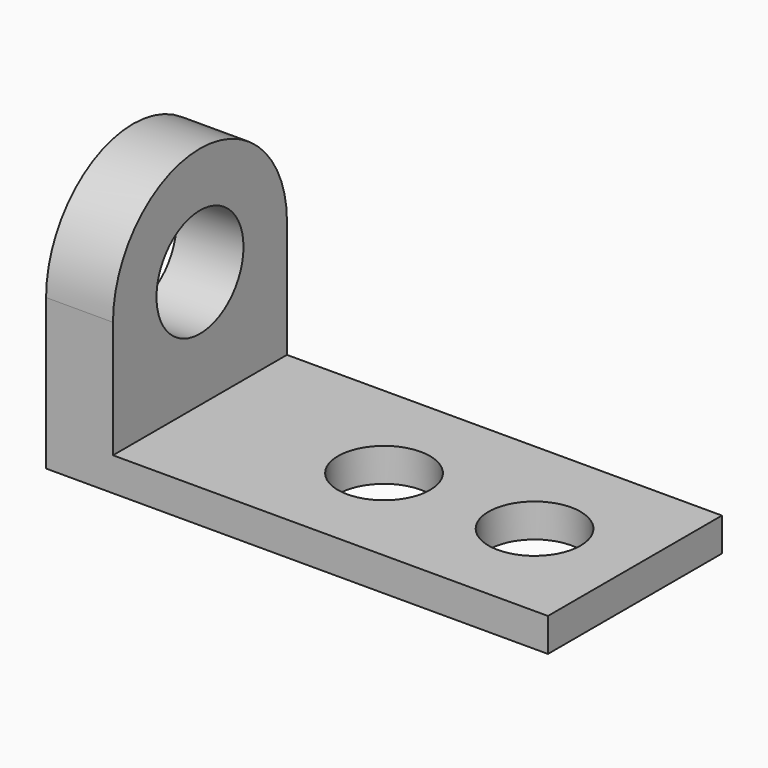
from build123d import *

# Parameters (mm, degrees)
F1_DEPTH = 82.55
F3_DEPTH = 25.4
F4_R     = 20.6375
F5_DEPTH = 25.4
F6_R     = 17.4625
F7_DEPTH = 25.4


with BuildPart() as f1:
    # F0 (on Front) → F1 (new body)
    with BuildSketch(Plane.XZ):
        Polygon((-95.25, 0), (0, 0), (95.25, 0), (95.25, 12.7), (-69.85, 12.7), (-69.85, 114.3), (-95.25, 114.3), align=None)
    extrude(amount=F1_DEPTH)

    # F2 (on face) → F3 (cut)
    with BuildSketch(Plane(origin=(-95.25, 0, 0), x_dir=(0, -1, 0), z_dir=(-1, 0, 0))):
        with BuildLine():
            ThreePointArc((0, 57.15), (41.275, 98.425), (82.55, 57.15))
            Line((82.55, 57.15), (82.55, 114.3))
            Line((82.55, 114.3), (0, 114.3))
            Line((0, 114.3), (0, 57.15))
        make_face()
    extrude(amount=-F3_DEPTH, mode=Mode.SUBTRACT)

    # F4 (on face) → F5 (cut)
    with BuildSketch(Plane.YZ.offset(-69.85)):
        with Locations((-41.275, 57.15)):
            Circle(F4_R)
    extrude(amount=-F5_DEPTH, mode=Mode.SUBTRACT)

    # F6 (on face) → F7 (cut)
    with BuildSketch(Plane.XY.offset(12.7)):
        with Locations((57.15, -41.275)):
            Circle(F6_R)
        with Locations((0, -41.275)):
            Circle(F6_R)
    extrude(amount=-F7_DEPTH, mode=Mode.SUBTRACT)


solid = f1.part
